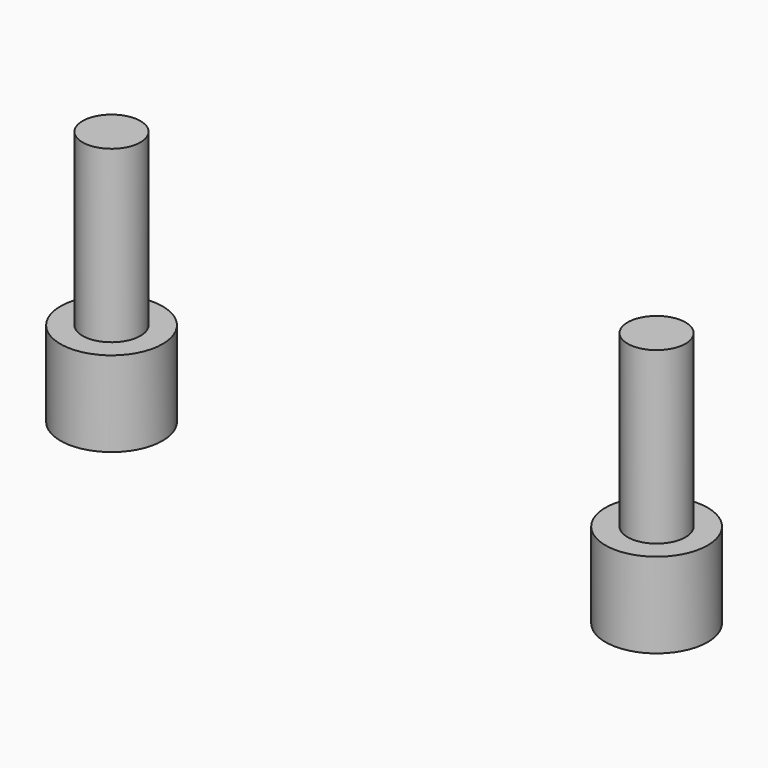
from build123d import *

# Parameters (mm, degrees)
CYLINDER006_R     = 3
CYLINDER006_DEPTH = 5
CYLINDER005_R     = 1.7
CYLINDER005_DEPTH = 15
CYLINDER008_R     = 3
CYLINDER008_DEPTH = 5
CYLINDER007_R     = 1.7
CYLINDER007_DEPTH = 15


with BuildPart() as cilindro006:
    # Cylinder006 → Cylinder006 (new body)
    with BuildSketch(Plane.XY):
        Circle(CYLINDER006_R)
    extrude(amount=CYLINDER006_DEPTH)


with BuildPart() as fusion007:
    # Cylinder005 → Cylinder005 (new body)
    with BuildSketch(Plane.XY):
        Circle(CYLINDER005_R)
    extrude(amount=CYLINDER005_DEPTH)

    # Fusion007: union Cilindro006
    add(cilindro006.part)


with BuildPart() as fusion007_1:
    # Fusion007 placement: moved
    add(fusion007.part.moved(Location((84, 242.5, -6.5))))


with BuildPart() as cilindro008:
    # Cylinder008 → Cylinder008 (new body)
    with BuildSketch(Plane.XY):
        Circle(CYLINDER008_R)
    extrude(amount=CYLINDER008_DEPTH)


with BuildPart() as fusion015:
    # Cylinder007 → Cylinder007 (new body)
    with BuildSketch(Plane.XY):
        Circle(CYLINDER007_R)
    extrude(amount=CYLINDER007_DEPTH)

    # Fusion008: union Cilindro008
    add(cilindro008.part)


with BuildPart() as fusion015_1:
    # Fusion008 placement: moved
    add(fusion015.part.moved(Location((116, 242.5, -6.5))))

    # Fusion015: union Fusion007
    add(fusion007_1.part)


solid = fusion015_1.part
